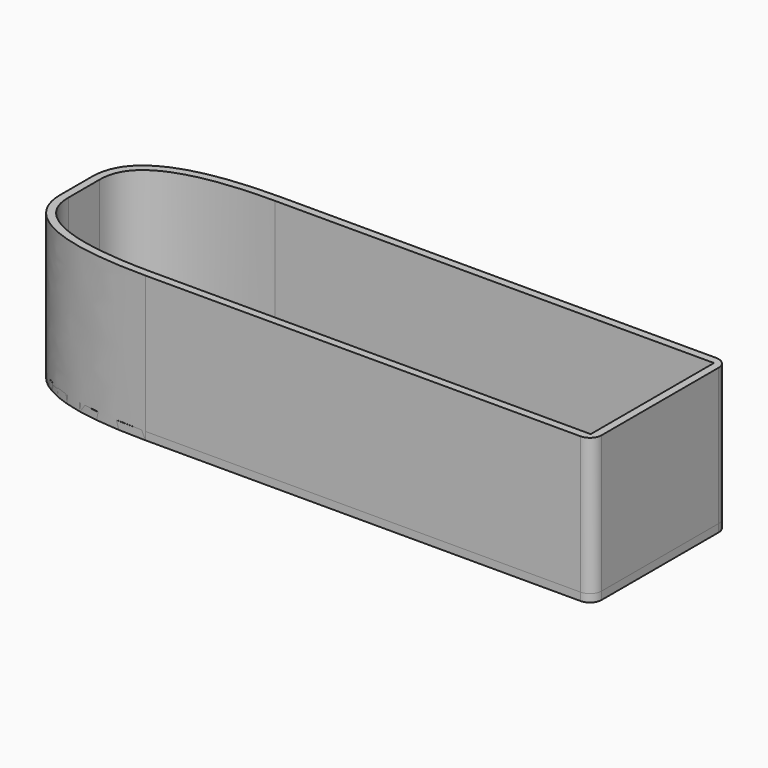
from build123d import *

# Parameters (mm, degrees)
PAD_DEPTH    = 37
THICKNESS_T  = -2
SKETCH002_R  = 3
HOLE_DEPTH   = 25
HOLE_TIPS_R  = 3
FILLET_R     = 3
SKETCH_W     = 66.6
SKETCH_H     = 33.3
SKETCH_R     = 1.5
PAD001_DEPTH = 2
FILLET001_R  = 3
FILLET002_R  = 3


with BuildPart() as body:
    # Sketch001 → Pad (new body)
    with BuildSketch(Plane.XY):
        with BuildLine():
            Line((-58, 21.65), (56, 21.65))
            Line((56, 21.65), (56, -21.65))
            Line((56, -21.65), (-58, -21.65))
            add(Edge.make_bspline(
                [(-58, -21.65), (-93, -21.65), (-93, -5)],
                knots=[0, 0, 0, 1, 1, 1], degree=2))
            Line((-93, -5), (-93, 5))
            add(Edge.make_bspline(
                [(-58, 21.65), (-93, 21.65), (-93, 5)],
                knots=[0, 0, 0, 1, 1, 1], degree=2))
        make_face()
    extrude(amount=PAD_DEPTH)

    # Thickness
    thickness_openings = [body.faces().sort_by_distance(p)[0] for p in [
        (-16.404598, 0, 37),
        (-16.404598, 0, 0),
    ]]
    offset(amount=THICKNESS_T, openings=thickness_openings)

    # Sketch002 (on Face5 of Thickness) → Hole (cut)
    with BuildSketch(Plane(origin=(-93, 0, 0), x_dir=(0, -1, 0), z_dir=(-1, 0, 0))):
        with Locations((0, 20)):
            Circle(SKETCH002_R)
    extrude(amount=-HOLE_DEPTH, mode=Mode.SUBTRACT)

    # Hole tips → Hole tip 1 section 0
    with BuildSketch(Plane(origin=(-68, 0, 0), x_dir=(0, -1, 0), z_dir=(-1, 0, 0)), mode=Mode.PRIVATE) as hole_tip_1_s0:
        with Locations((0, 20)):
            Circle(HOLE_TIPS_R)
    loft([hole_tip_1_s0.sketch, Vertex(-66.197418, 0, 20)], mode=Mode.SUBTRACT)

    # Fillet
    fillet_edges = [body.edges().sort_by_distance(p)[0] for p in [
        (56, 21.65, 18.5),
        (56, -21.65, 18.5),
    ]]
    fillet(fillet_edges, radius=FILLET_R)


with BuildPart() as body001:
    # Sketch → Pad001 (new body)
    with BuildSketch(Plane.XY):
        with BuildLine():
            Line((-58, 21.65), (56, 21.65))
            Line((56, 21.65), (56, -21.65))
            Line((56, -21.65), (-58, -21.65))
            add(Edge.make_bspline(
                [(-58, -21.65), (-93, -21.65), (-93, -5)],
                knots=[0, 0, 0, 1, 1, 1], degree=2))
            Line((-93, -5), (-93, 5))
            add(Edge.make_bspline(
                [(-58, 21.65), (-93, 21.65), (-93, 5)],
                knots=[0, 0, 0, 1, 1, 1], degree=2))
        make_face()
        Rectangle(SKETCH_W, SKETCH_H, mode=Mode.SUBTRACT)
        with Locations((-48, 0)):
            Circle(SKETCH_R, mode=Mode.SUBTRACT)
        with Locations((48, 0)):
            Circle(SKETCH_R, mode=Mode.SUBTRACT)
    extrude(amount=PAD001_DEPTH)

    # Fillet001
    fillet001_edges = [body001.edges().sort_by_distance(p)[0] for p in [
        (56, -21.65, 1),
    ]]
    fillet(fillet001_edges, radius=FILLET001_R)

    # Fillet002
    fillet002_edges = [body001.edges().sort_by_distance(p)[0] for p in [
        (56, 21.65, 1),
    ]]
    fillet(fillet002_edges, radius=FILLET002_R)


solid = Compound([body.part, body001.part])
